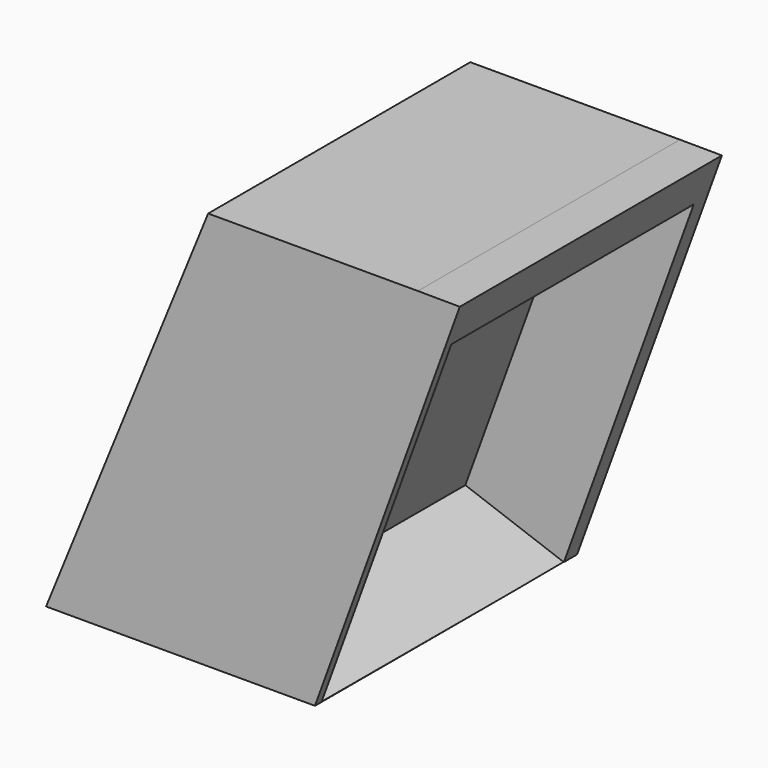
from build123d import *

# Parameters (mm, degrees)
F1_DEPTH = 31.75
F4_DEPTH = 10.16


with BuildPart() as f1:
    # F0 (on Front) → F1 (new body)
    with BuildSketch(Plane.XZ):
        Polygon((-5.7312170975, 0), (0, 0), (20.32, 0), (34.3509428203, 38.6004447937), (30.2905770854, 38.6269569982), (9.9705770854, 38.6269569982), align=None)
    extrude(amount=F1_DEPTH)

    # F3 (on offset) → F4 (cut)
    with BuildSketch(Plane(origin=(17.9485283523, 0, -6.5241417907), x_dir=(0, 1, 0), z_dir=(0.93983707, 0, -0.3416230113))):
        Polygon((-30.9579856694, 43.7599867582), (-30.9579856694, 6.9899298251), (-1.5961413737, 6.9286781363), (-1.5961413737, 43.7599867582), align=None)
    extrude(amount=-F4_DEPTH, mode=Mode.SUBTRACT)


solid = f1.part
